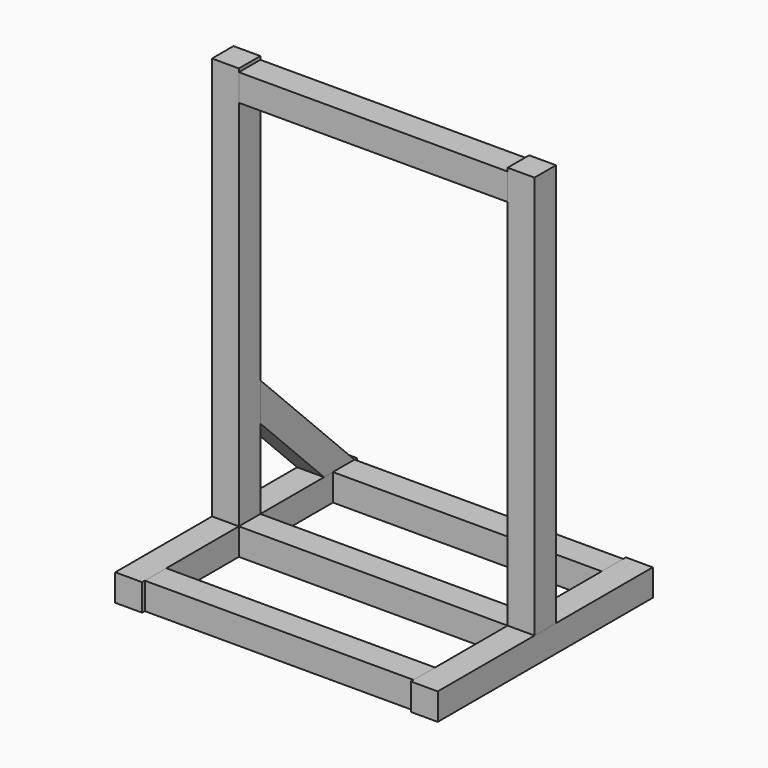
from build123d import *

# Parameters (mm, degrees)
F1_W     = 40
F1_H     = 40
F2_DEPTH = 40
F3_DEPTH = 40
F4_DEPTH = 600
F5_W     = 400
F5_H     = 40
F6_DEPTH = 40
F8_DEPTH = 40


with BuildPart() as f2:
    # F1 (on Top) → F2 (new body)
    with BuildSketch(Plane.XY):
        Polygon((-200, 200), (-240, 200), (-240, 20), (-200, 20), (-200, 155), (-200, 195), align=None)
        with Locations((-220, 0)):
            Rectangle(F1_W, F1_H)
        Polygon((-200, -20), (-240, -20), (-240, -200), (-200, -200), (-200, -195), (-200, -155), align=None)
    extrude(amount=-F2_DEPTH)


with BuildPart() as f2b:
    # F1 (on Top) → F2, piece 2 (new body)
    with BuildSketch(Plane.XY):
        Polygon((200, 200), (200, 195), (200, 155), (200, 20), (240, 20), (240, 200), align=None)
        with Locations((220, 0)):
            Rectangle(F1_W, F1_H)
        Polygon((240, -20), (200, -20), (200, -155), (200, -195), (200, -200), (240, -200), align=None)
        Polygon((240, -20), (200, -20), (200, -155), (200, -195), (200, -200), (240, -200), align=None)
        Polygon((200, 200), (200, 195), (200, 155), (200, 20), (240, 20), (240, 200), align=None)
    extrude(amount=-F2_DEPTH)


with BuildPart() as f3:
    # F1 (on Top) → F3 (new body)
    with BuildSketch(Plane.XY):
        Polygon((0, 20), (-200, 20), (-200, -20), (0, -20), (200, -20), (200, 20), align=None)
    extrude(amount=-F3_DEPTH)


with BuildPart() as f3b:
    # F1 (on Top) → F3, piece 2 (new body)
    with BuildSketch(Plane.XY):
        Polygon((0, -155), (-200, -155), (-200, -195), (0, -195), (200, -195), (200, -155), align=None)
    extrude(amount=-F3_DEPTH)


with BuildPart() as f3c:
    # F1 (on Top) → F3, piece 3 (new body)
    with BuildSketch(Plane.XY):
        Polygon((0, 195), (-200, 195), (-200, 155), (0, 155), (200, 155), (200, 195), align=None)
    extrude(amount=-F3_DEPTH)


with BuildPart() as f4:
    # F1 (on Top) → F4 (new body)
    with BuildSketch(Plane.XY):
        with Locations((-220, 0)):
            Rectangle(F1_W, F1_H)
    extrude(amount=F4_DEPTH)


with BuildPart() as f4b:
    # F1 (on Top) → F4, piece 2 (new body)
    with BuildSketch(Plane.XY):
        with Locations((220, 0)):
            Rectangle(F1_W, F1_H)
    extrude(amount=F4_DEPTH)


with BuildPart() as f6:
    # F5 (on face) → F6 (new body)
    with BuildSketch(Plane.XZ.offset(20)):
        with Locations((0, 575)):
            Rectangle(F5_W, F5_H)
    extrude(amount=-F6_DEPTH)


with BuildPart() as f8:
    # F7 (on face) → F8 (new body)
    with BuildSketch(Plane(origin=(-240, 0, 0), x_dir=(0, -1, 0), z_dir=(-1, 0, 0))):
        Polygon((-20, 175), (-195, 0), (-138.4314575051, 0), (-20, 118.4314575051), align=None)
    extrude(amount=-F8_DEPTH)


solid = Compound([f2.part, f2b.part, f3.part, f3b.part, f3c.part, f4.part, f4b.part, f6.part, f8.part])
